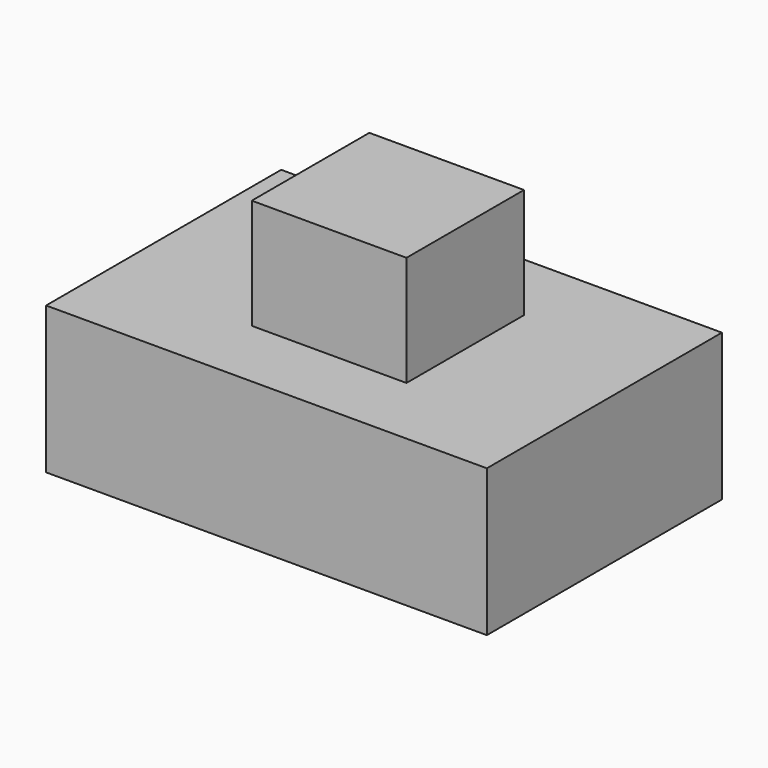
from build123d import *

# Parameters (mm, degrees)
F0_W     = 76.2
F0_H     = 50.8
F1_DEPTH = 25.4
F2_W     = 26.746374
F2_H     = 25.4
F3_DEPTH = 44.45


with BuildPart() as f1:
    # F0 (on Top) → F1 (new body)
    with BuildSketch(Plane.XY):
        with Locations((38.1, -25.4)):
            Rectangle(F0_W, F0_H)
    extrude(amount=F1_DEPTH)

    # F2 (on Top) → F3 (join)
    with BuildSketch(Plane.XY):
        with Locations((38.773187, -25.4)):
            Rectangle(F2_W, F2_H)
    extrude(amount=F3_DEPTH)


solid = f1.part
